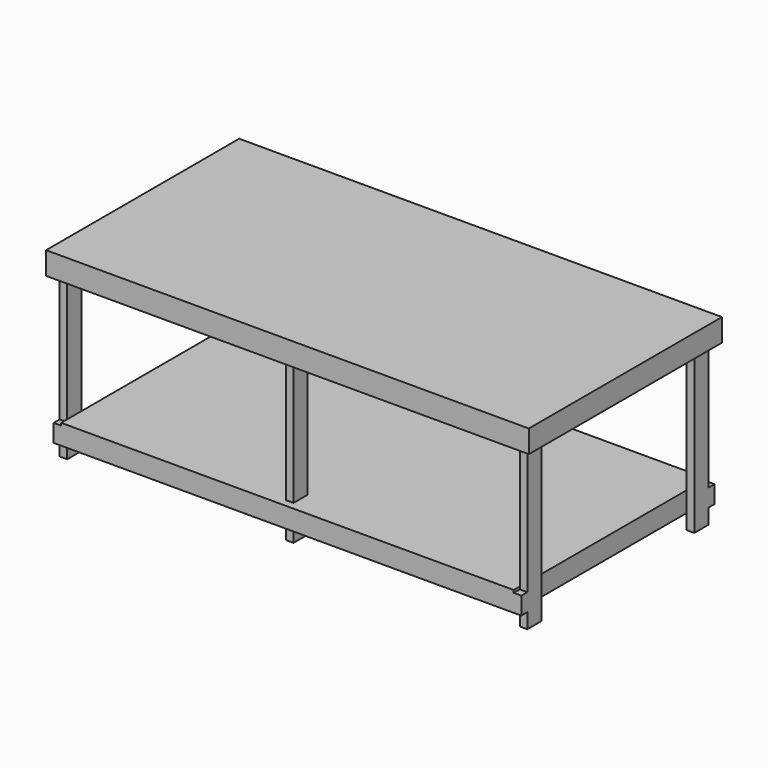
from build123d import *

# Parameters (mm, degrees)
F0_W      = 2438.4
F0_H      = 1219.2
F1_DEPTH  = 25.4
F2_W      = 2438.4
F2_H      = 1219.2
F2_W_2    = 2362.2
F2_H_2    = 1143
F3_DEPTH  = 88.9
F4_W      = 38.1
F4_H      = 88.9
F5_DEPTH  = 895.35
F7_W      = 1104.9
F7_H      = 1143
F7_W_2    = 1066.8
F8_DEPTH  = 88.9
F9_W      = 2286
F9_H      = 1219.2
F10_DEPTH = 12.7


with BuildPart() as f1:
    # F0 (on Top) → F1 (new body)
    with BuildSketch(Plane.XY):
        with Locations((1219.2, -609.6)):
            Rectangle(F0_W, F0_H)
    extrude(amount=F1_DEPTH)

    # F2 (on face) → F3 (join)
    with BuildSketch(Plane(origin=(0, 0, 0), x_dir=(1, 0, 0), z_dir=(0, 0, -1))):
        with Locations((1219.2, 609.6)):
            Rectangle(F2_W, F2_H)
        with Locations((1219.2, 609.6)):
            Rectangle(F2_W_2, F2_H_2, mode=Mode.SUBTRACT)
    extrude(amount=F3_DEPTH)

    # F4 (on face) → F5 (join)
    with BuildSketch(Plane(origin=(0, 0, 0), x_dir=(1, 0, 0), z_dir=(0, 0, -1))):
        with Locations((57.15, 1136.65)):
            Rectangle(F4_W, F4_H)
        with Locations((57.15, 82.55)):
            Rectangle(F4_W, F4_H)
        with Locations((2381.25, 1136.65)):
            Rectangle(F4_W, F4_H)
        with Locations((2381.25, 82.55)):
            Rectangle(F4_W, F4_H)
        with Locations((1200.15, 1136.65)):
            Rectangle(F4_W, F4_H)
        with Locations((1200.15, 82.55)):
            Rectangle(F4_W, F4_H)
    extrude(amount=F5_DEPTH)

    # F7 (on offset) → F8 (join)
    with BuildSketch(Plane.XY.offset(-730.25)):
        Polygon((2400.3, 0), (38.1, 0), (38.1, -38.1), (76.2, -38.1), (76.2, -1181.1), (38.1, -1181.1), (38.1, -1219.2), (2400.3, -1219.2), (2400.3, -1181.1), (2362.2, -1181.1), (2362.2, -38.1), (2400.3, -38.1), align=None)
        with Locations((666.75, -609.6)):
            Rectangle(F7_W, F7_H, mode=Mode.SUBTRACT)
        with Locations((1790.7, -609.6)):
            Rectangle(F7_W_2, F7_H, mode=Mode.SUBTRACT)
    extrude(amount=-F8_DEPTH)

    # F9 (on offset) → F10 (join)
    with BuildSketch(Plane.XY.offset(-730.25)):
        with Locations((1219.2, -609.6)):
            Rectangle(F9_W, F9_H)
    extrude(amount=F10_DEPTH)


solid = f1.part
